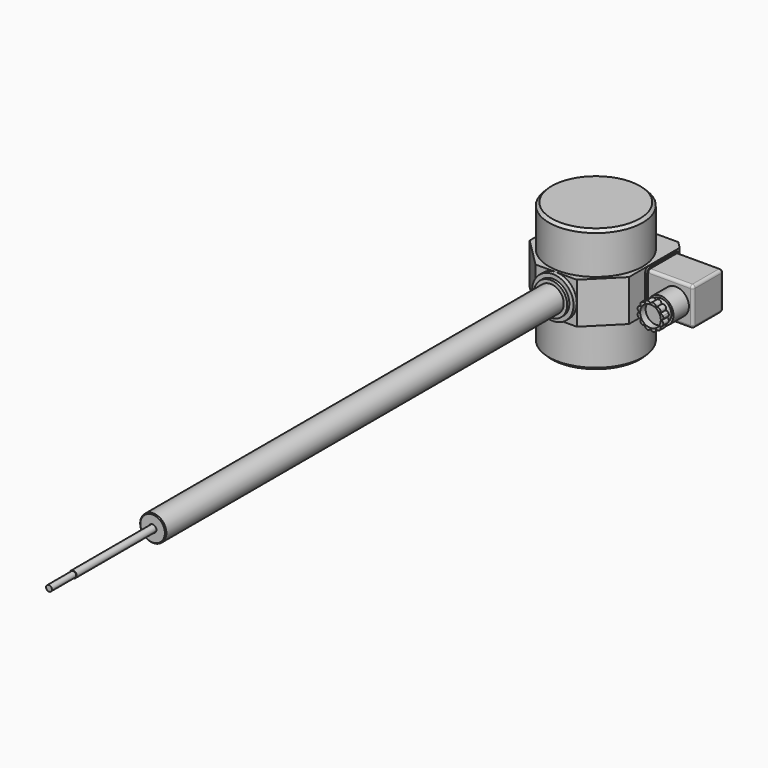
from build123d import *

# Parameters (mm, degrees)
F0_R      = 9.5
F0_R_2    = 2.75
F1_DEPTH  = 361
F2_R      = 2.5
F3_DEPTH  = 433
F4_R      = 2.1
F5_DEPTH  = 22
F6_SIZE   = 0.6
F7_R      = 12
F7_R_2    = 9.5
F7_R_3    = 2.75
F8_DEPTH  = 2
F9_R      = 15
F9_R_2    = 12
F9_R_3    = 2.75
F10_DEPTH = 3
F11_R     = 34
F12_DEPTH = 15
F13_DEPTH = 45
F14_SIZE  = 2
F16_DEPTH = 1.5
F17_DEPTH = 34
F18_R     = 2
F19_R     = 9.5
F20_DEPTH = 14
F21_R     = 8
F22_DEPTH = 4
F23_R     = 7.5
F24_DEPTH = 5


with BuildPart() as f1:
    # F0 (on Front) → F1 (new body)
    with BuildSketch(Plane.XZ):
        Circle(F0_R)
        Circle(F0_R_2, mode=Mode.SUBTRACT)
    extrude(amount=F1_DEPTH)

    # F6
    f6_edges = [f1.edges().sort_by_distance(p)[0] for p in [
        (-9.5, -361, 0),
    ]]
    chamfer(f6_edges, length=F6_SIZE)

    # F7 (on face) → F8 (join)
    with BuildSketch(Plane(origin=(0, 0, 0), x_dir=(-1, 0, 0), z_dir=(0, 1, 0))):
        Circle(F7_R)
        Circle(F7_R_2, mode=Mode.SUBTRACT)
        Circle(F7_R_2)
        Circle(F7_R_3, mode=Mode.SUBTRACT)
    extrude(amount=F8_DEPTH)

    # F9 (on face) → F10 (join)
    with BuildSketch(Plane(origin=(0, 2, 0), x_dir=(-1, 0, 0), z_dir=(0, 1, 0))):
        Circle(F9_R)
        Circle(F9_R_2, mode=Mode.SUBTRACT)
        Circle(F9_R_2)
        Circle(F9_R_3, mode=Mode.SUBTRACT)
    extrude(amount=F10_DEPTH)

    # F11 (on Top) → F12 (join, symmetric)
    with BuildSketch(Plane.XY):
        Polygon((0, 5), (15, 5), (36, 26), (36, 72), (31, 77), (0, 77), (-31, 77), (-36, 72), (-36, 26), (-15, 5), align=None)
        with Locations((0, 41)):
            Circle(F11_R, mode=Mode.SUBTRACT)
    extrude(amount=F12_DEPTH, both=True)

    # F11 (on Top) → F13 (join, symmetric)
    with BuildSketch(Plane.XY):
        with Locations((0, 41)):
            Circle(F11_R)
    extrude(amount=F13_DEPTH, both=True)

    # F14
    f14_edges = [f1.edges().sort_by_distance(p)[0] for p in [
        (-34, 41, 45),
        (-34, 41, -45),
    ]]
    chamfer(f14_edges, length=F14_SIZE)

    # F15 (on face) → F16 (join)
    with BuildSketch(Plane.YZ.offset(36)):
        with BuildLine():
            Line((40.6471081972, 11.75), (40.6471081972, -11.75))
            ThreePointArc((40.6471081972, -11.75), (41.5257878537, -13.8713203436), (43.6471081972, -14.75))
            Line((43.6471081972, -14.75), (67.1471081972, -14.75))
            ThreePointArc((67.1471081972, -14.75), (69.2684285408, -13.8713203436), (70.1471081972, -11.75))
            Line((70.1471081972, -11.75), (70.1471081972, 11.75))
            ThreePointArc((70.1471081972, 11.75), (69.2684285408, 13.8713203436), (67.1471081972, 14.75))
            Line((67.1471081972, 14.75), (43.6471081972, 14.75))
            ThreePointArc((43.6471081972, 14.75), (41.5257878537, 13.8713203436), (40.6471081972, 11.75))
        make_face()
        with BuildLine():
            ThreePointArc((69.1471081972, -11.75), (68.5613217596, -13.1642135624), (67.1471081972, -13.75))
            Line((67.1471081972, -13.75), (43.6471081972, -13.75))
            ThreePointArc((43.6471081972, -13.75), (42.2328946348, -13.1642135624), (41.6471081972, -11.75))
            Line((41.6471081972, -11.75), (41.6471081972, 11.75))
            ThreePointArc((41.6471081972, 11.75), (42.2328946348, 13.1642135624), (43.6471081972, 13.75))
            Line((43.6471081972, 13.75), (67.1471081972, 13.75))
            ThreePointArc((67.1471081972, 13.75), (68.5613217596, 13.1642135624), (69.1471081972, 11.75))
            Line((69.1471081972, 11.75), (69.1471081972, -11.75))
        make_face(mode=Mode.SUBTRACT)
        with BuildLine():
            Line((43.6471081972, -13.75), (67.1471081972, -13.75))
            ThreePointArc((67.1471081972, -13.75), (68.5613217596, -13.1642135624), (69.1471081972, -11.75))
            Line((69.1471081972, -11.75), (69.1471081972, 11.75))
            ThreePointArc((69.1471081972, 11.75), (68.5613217596, 13.1642135624), (67.1471081972, 13.75))
            Line((67.1471081972, 13.75), (43.6471081972, 13.75))
            ThreePointArc((43.6471081972, 13.75), (42.2328946348, 13.1642135624), (41.6471081972, 11.75))
            Line((41.6471081972, 11.75), (41.6471081972, -11.75))
            ThreePointArc((41.6471081972, -11.75), (42.2328946348, -13.1642135624), (43.6471081972, -13.75))
        make_face()
    extrude(amount=F16_DEPTH)

    # F15 (on face) → F17 (join)
    with BuildSketch(Plane.YZ.offset(36)):
        with BuildLine():
            Line((43.6471081972, -13.75), (67.1471081972, -13.75))
            ThreePointArc((67.1471081972, -13.75), (68.5613217596, -13.1642135624), (69.1471081972, -11.75))
            Line((69.1471081972, -11.75), (69.1471081972, 11.75))
            ThreePointArc((69.1471081972, 11.75), (68.5613217596, 13.1642135624), (67.1471081972, 13.75))
            Line((67.1471081972, 13.75), (43.6471081972, 13.75))
            ThreePointArc((43.6471081972, 13.75), (42.2328946348, 13.1642135624), (41.6471081972, 11.75))
            Line((41.6471081972, 11.75), (41.6471081972, -11.75))
            ThreePointArc((41.6471081972, -11.75), (42.2328946348, -13.1642135624), (43.6471081972, -13.75))
        make_face()
    extrude(amount=F17_DEPTH)

    # F18
    f18_edges = [f1.edges().sort_by_distance(p)[0] for p in [
        (70, 55.397108, -13.75),
        (70, 68.561322, -13.164214),
        (70, 69.147108, 0),
        (70, 68.561322, 13.164214),
        (70, 55.397108, 13.75),
        (70, 42.232895, 13.164214),
        (70, 41.647108, 0),
        (70, 42.232895, -13.164214),
    ]]
    fillet(f18_edges, radius=F18_R)

    # F19 (on face) → F20 (join)
    with BuildSketch(Plane.XZ.offset(-41.6471081972)):
        with Locations((57.5103309431, 0)):
            Circle(F19_R)
    extrude(amount=F20_DEPTH)

    # F21 (on face) → F22 (join)
    with BuildSketch(Plane.XZ.offset(-27.6471081972)):
        with Locations((57.5103309431, 0)):
            Circle(F21_R)
    extrude(amount=F22_DEPTH)

    # F23 (on face) → F24 (join)
    with BuildSketch(Plane.XZ.offset(-23.6471081972)):
        with BuildLine():
            ThreePointArc((65.5103309431, 0), (66.4393798758, 0.7159873193), (66.8342776434, 1.820444432))
            ThreePointArc((66.8342776434, 1.820444432), (66.6866262929, 2.4587809285), (66.4953278651, 3.0854222259))
            ThreePointArc((66.4953278651, 3.0854222259), (65.6011078101, 3.8444612591), (64.4385341734, 4))
            ThreePointArc((64.4385341734, 4), (64.2865372378, 6.7762062946), (61.5103309431, 6.9282032303))
            ThreePointArc((61.5103309431, 6.9282032303), (59.9905945883, 9.2564699398), (57.5103309431, 8))
            ThreePointArc((57.5103309431, 8), (55.030067298, 9.2564699398), (53.5103309431, 6.9282032303))
            ThreePointArc((53.5103309431, 6.9282032303), (50.7341246485, 6.7762062946), (50.5821277129, 4))
            ThreePointArc((50.5821277129, 4), (48.2538610034, 2.4802636451), (49.5103309431, 0))
            ThreePointArc((49.5103309431, 0), (48.2538610034, -2.4802636451), (50.5821277129, -4))
            ThreePointArc((50.5821277129, -4), (50.7341246485, -6.7762062946), (53.5103309431, -6.9282032303))
            ThreePointArc((53.5103309431, -6.9282032303), (55.030067298, -9.2564699398), (57.5103309431, -8))
            ThreePointArc((57.5103309431, -8), (59.9905945883, -9.2564699398), (61.5103309431, -6.9282032303))
            ThreePointArc((61.5103309431, -6.9282032303), (64.2865372378, -6.7762062946), (64.4385341734, -4))
            ThreePointArc((64.4385341734, -4), (66.7668008829, -2.4802636451), (65.5103309431, 0))
        make_face()
        with Locations((57.5103309431, 0)):
            Circle(F23_R, mode=Mode.SUBTRACT)
        with BuildLine():
            ThreePointArc((66.4953278651, 3.0854222259), (66.6866262929, 2.4587809285), (66.8342776434, 1.820444432))
            ThreePointArc((66.8342776434, 1.820444432), (66.7668008829, 2.4802636451), (66.4953278651, 3.0854222259))
        make_face()
    extrude(amount=F24_DEPTH)


with BuildPart() as f3:
    # F2 (on Front) → F3 (new body)
    with BuildSketch(Plane.XZ):
        Circle(F2_R)
    extrude(amount=F3_DEPTH)

    # F4 (on face) → F5 (join)
    with BuildSketch(Plane.XZ.offset(433)):
        Circle(F4_R)
    extrude(amount=F5_DEPTH)


solid = Compound([f1.part, f3.part])
